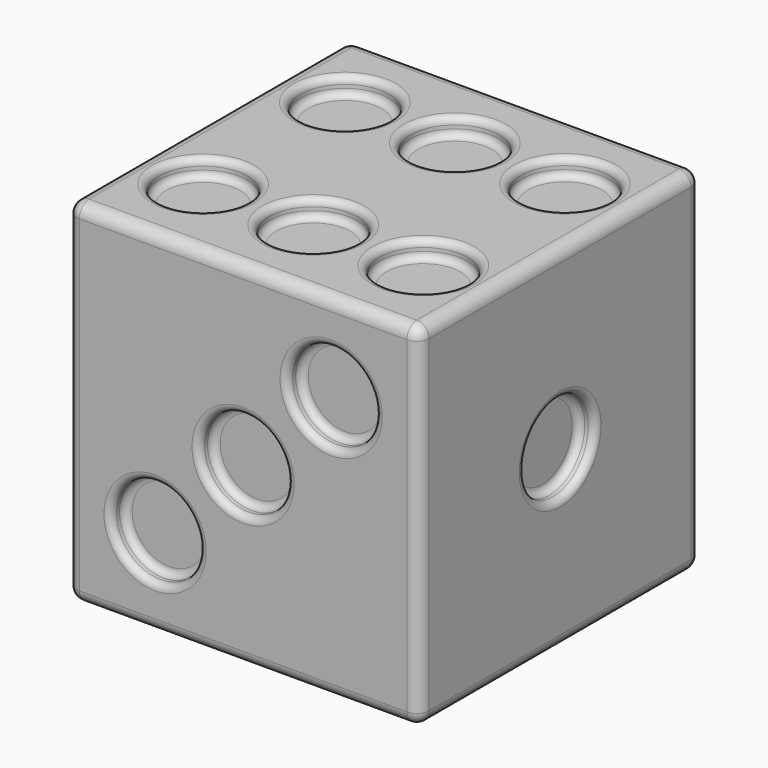
from build123d import *

# Parameters (mm, degrees)
F0_W      = 100
F0_H      = 100
F1_DEPTH  = 100
F3_R      = 12.5
F8_DEPTH  = 5
F5_R      = 12.5
F9_DEPTH  = 5
F2_R      = 12.5
F10_DEPTH = 5
F6_R      = 12.5
F11_DEPTH = 5
F7_R      = 12.5
F12_DEPTH = 5
F4_R      = 12.5
F13_DEPTH = 5
F14_R     = 2
F15_R     = 2
F16_R     = 2
F17_R     = 2
F18_R     = 2
F19_R     = 2
F20_R     = 3.5


with BuildPart() as f1:
    # F0 (on Top) → F1 (new body)
    with BuildSketch(Plane.XY):
        with Locations((-106.375409, -22.130866)):
            Rectangle(F0_W, F0_H)
    extrude(amount=F1_DEPTH)

    # F3 (on face) → F8 (cut)
    with BuildSketch(Plane(origin=(0, 0, 0), x_dir=(1, 0, 0), z_dir=(0, 0, -1))):
        with Locations((-81.375409, 47.130866)):
            Circle(F3_R)
        with Locations((-106.375409, 22.130866)):
            Circle(F3_R)
        with Locations((-131.375409, 47.130866)):
            Circle(F3_R)
        with Locations((-131.375409, -2.869134)):
            Circle(F3_R)
        with Locations((-81.375409, -2.869134)):
            Circle(F3_R)
    extrude(amount=-F8_DEPTH, mode=Mode.SUBTRACT)

    # F5 (on face) → F9 (cut)
    with BuildSketch(Plane.XZ.offset(72.130866)):
        with Locations((-81.375409, 75)):
            Circle(F5_R)
        with Locations((-106.375409, 50)):
            Circle(F5_R)
        with Locations((-131.375409, 25)):
            Circle(F5_R)
    extrude(amount=-F9_DEPTH, mode=Mode.SUBTRACT)

    # F2 (on face) → F10 (cut)
    with BuildSketch(Plane.YZ.offset(-56.375409)):
        with Locations((-22.130866, 50)):
            Circle(F2_R)
    extrude(amount=-F10_DEPTH, mode=Mode.SUBTRACT)

    # F6 (on face) → F11 (cut)
    with BuildSketch(Plane(origin=(-156.375409, 0, 0), x_dir=(0, -1, 0), z_dir=(-1, 0, 0))):
        with Locations((-2.869134, 75)):
            Circle(F6_R)
        with Locations((-2.869134, 25)):
            Circle(F6_R)
        with Locations((47.130866, 25)):
            Circle(F6_R)
        with Locations((47.130866, 75)):
            Circle(F6_R)
    extrude(amount=-F11_DEPTH, mode=Mode.SUBTRACT)

    # F7 (on face) → F12 (cut)
    with BuildSketch(Plane.XY.offset(100)):
        with Locations((-75.125409, 3.030482)):
            Circle(F7_R)
        with Locations((-106.375409, 3.030482)):
            Circle(F7_R)
        with Locations((-75.125409, -47.260847)):
            Circle(F7_R)
        with Locations((-106.375409, -47.260847)):
            Circle(F7_R)
        with Locations((-137.625409, -47.260847)):
            Circle(F7_R)
        with Locations((-137.625409, 3.030482)):
            Circle(F7_R)
    extrude(amount=-F12_DEPTH, mode=Mode.SUBTRACT)

    # F4 (on face) → F13 (cut)
    with BuildSketch(Plane(origin=(0, 27.869134, 0), x_dir=(-1, 0, 0), z_dir=(0, 1, 0))):
        with Locations((89.609428, 33.234019)):
            Circle(F4_R)
        with Locations((123.14139, 66.765981)):
            Circle(F4_R)
    extrude(amount=-F13_DEPTH, mode=Mode.SUBTRACT)

    # F14
    f14_edges = [f1.edges().sort_by_distance(p)[0] for p in [
        (-61.375409, -34.630866, 50),
        (-56.375409, -34.630866, 50),
    ]]
    fillet(f14_edges, radius=F14_R)

    # F15
    f15_edges = [f1.edges().sort_by_distance(p)[0] for p in [
        (-93.875409, -67.130866, 75),
        (-93.875409, -72.130866, 75),
        (-118.875409, -67.130866, 50),
        (-118.875409, -72.130866, 50),
        (-143.875409, -67.130866, 25),
        (-143.875409, -72.130866, 25),
    ]]
    fillet(f15_edges, radius=F15_R)

    # F16
    f16_edges = [f1.edges().sort_by_distance(p)[0] for p in [
        (-151.375409, 15.369134, 75),
        (-156.375409, 15.369134, 75),
        (-151.375409, -34.630866, 75),
        (-156.375409, -34.630866, 75),
        (-151.375409, -34.630866, 25),
        (-156.375409, -34.630866, 25),
        (-151.375409, 15.369134, 25),
        (-156.375409, 15.369134, 25),
    ]]
    fillet(f16_edges, radius=F16_R)

    # F17
    f17_edges = [f1.edges().sort_by_distance(p)[0] for p in [
        (-77.109428, 22.869134, 33.234019),
        (-77.109428, 27.869134, 33.234019),
        (-110.64139, 22.869134, 66.765981),
        (-110.64139, 27.869134, 66.765981),
    ]]
    fillet(f17_edges, radius=F17_R)

    # F18
    f18_edges = [f1.edges().sort_by_distance(p)[0] for p in [
        (-87.625409, 3.030482, 95),
        (-87.625409, 3.030482, 100),
        (-118.875409, 3.030482, 95),
        (-118.875409, 3.030482, 100),
        (-150.125409, 3.030482, 95),
        (-150.125409, 3.030482, 100),
        (-87.625409, -47.260847, 95),
        (-87.625409, -47.260847, 100),
        (-118.875409, -47.260847, 95),
        (-118.875409, -47.260847, 100),
        (-150.125409, -47.260847, 95),
        (-150.125409, -47.260847, 100),
    ]]
    fillet(f18_edges, radius=F18_R)

    # F19
    f19_edges = [f1.edges().sort_by_distance(p)[0] for p in [
        (-143.875409, 2.869134, 5),
        (-143.875409, 2.869134, 0),
        (-118.875409, -22.130866, 5),
        (-118.875409, -22.130866, 0),
        (-93.875409, 2.869134, 5),
        (-93.875409, 2.869134, 0),
        (-143.875409, -47.130866, 5),
        (-143.875409, -47.130866, 0),
        (-93.875409, -47.130866, 5),
        (-93.875409, -47.130866, 0),
    ]]
    fillet(f19_edges, radius=F19_R)

    # F20
    f20_edges = [f1.edges().sort_by_distance(p)[0] for p in [
        (-106.375409, 27.869134, 100),
        (-156.375409, -22.130866, 100),
        (-156.375409, 27.869134, 50),
        (-106.375409, -72.130866, 100),
        (-56.375409, -72.130866, 50),
        (-56.375409, -22.130866, 100),
        (-56.375409, -22.130866, 0),
        (-106.375409, -72.130866, 0),
        (-156.375409, -22.130866, 0),
        (-106.375409, 27.869134, 0),
        (-56.375409, 27.869134, 50),
        (-156.375409, -72.130866, 50),
    ]]
    fillet(f20_edges, radius=F20_R)


solid = f1.part
